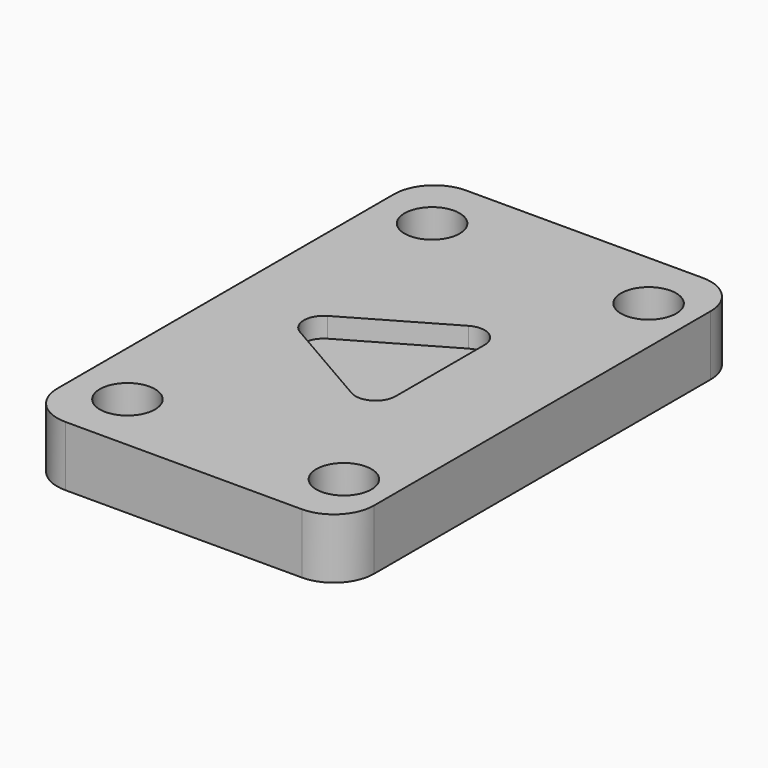
from build123d import *

# Parameters (mm, degrees)
F0_W      = 15.8
F0_H      = 25
F1_DEPTH  = 3
F3_R      = 1.375
F4_R      = 1.375
F7_DEPTH  = 5
F5_R      = 1.375
F8_DEPTH  = 5
F6_R      = 1.375
F9_DEPTH  = 5
F10_R     = 2
F12_DEPTH = 1
F13_R     = 1


with BuildPart() as f1:
    # F0 (on Top) → F1 (new body)
    with BuildSketch(Plane.XY):
        with Locations((7.9, 12.5)):
            Rectangle(F0_W, F0_H)
    extrude(amount=F1_DEPTH)

    # F3 (on face) + F4 (on face) → F7 (cut)
    with BuildSketch(Plane.XY.offset(3)):
        with Locations((13.5, 3)):
            Circle(F3_R)
    with BuildSketch(Plane.XY.offset(3)):
        with Locations((2.7, 3)):
            Circle(F4_R)
    extrude(amount=-F7_DEPTH, mode=Mode.SUBTRACT)

    # F5 (on face) → F8 (cut)
    with BuildSketch(Plane.XY.offset(3)):
        with Locations((2.7, 22)):
            Circle(F5_R)
    extrude(amount=-F8_DEPTH, mode=Mode.SUBTRACT)

    # F6 (on face) → F9 (cut)
    with BuildSketch(Plane.XY.offset(3)):
        with Locations((13.5, 22)):
            Circle(F6_R)
    extrude(amount=-F9_DEPTH, mode=Mode.SUBTRACT)

    # F10
    f10_edges = [f1.edges().sort_by_distance(p)[0] for p in [
        (15.8, 25, 1.5),
        (15.8, 0, 1.5),
        (0, 0, 1.5),
        (0, 25, 1.5),
    ]]
    fillet(f10_edges, radius=F10_R)

    # F11 (on face) → F12 (cut)
    with BuildSketch(Plane.XY.offset(3)):
        Polygon((10.7, 17.003332), (2.9, 12.5), (10.7, 7.996668), align=None)
    extrude(amount=-F12_DEPTH, mode=Mode.SUBTRACT)

    # F13
    f13_edges = [f1.edges().sort_by_distance(p)[0] for p in [
        (2.9, 12.5, 2.5),
        (10.7, 17.003332, 2.5),
        (10.7, 7.996668, 2.5),
    ]]
    fillet(f13_edges, radius=F13_R)


solid = f1.part
